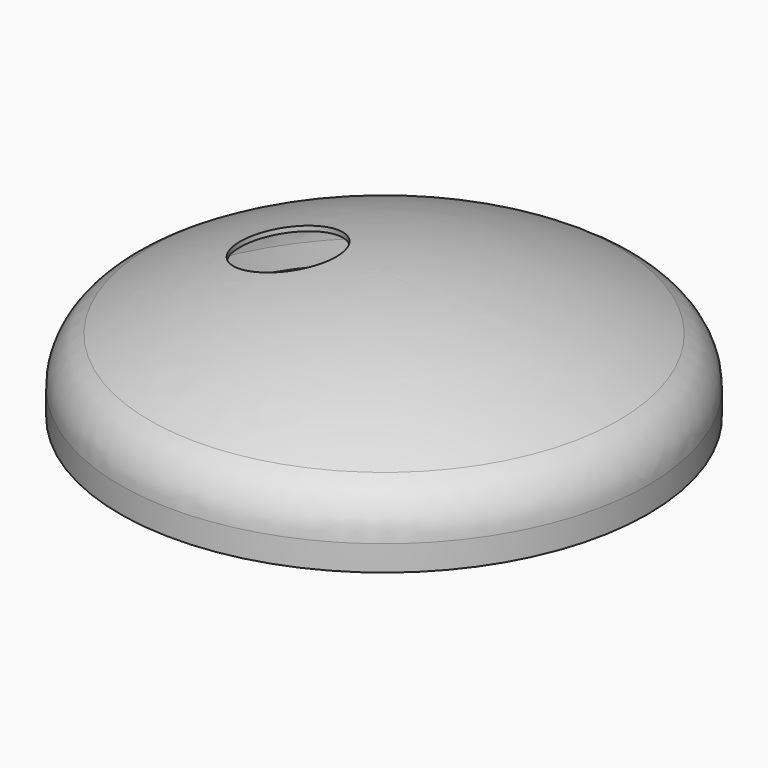
from build123d import *

# Parameters (mm, degrees)
F2_R     = 55
F3_R     = 55
F4_R     = 50
F5_DEPTH = 132.501


with BuildPart() as f1:
    # F0 (on Front) → F1 (revolve)
    with BuildSketch(Plane.XZ):
        with BuildLine():
            ThreePointArc((275, 482.078832), (142.251974, 536.460041), (0, 555))
            Line((0, 555), (0, 550))
            ThreePointArc((0, 550), (139.568499, 531.996837), (270, 479.165942))
            Line((270, 479.165942), (270, 422.5))
            Line((270, 422.5), (275, 422.5))
            Line((275, 422.5), (275, 476.313972))
            Line((275, 476.313972), (275, 482.078832))
        make_face()
    revolve(axis=Axis((0, 0, 339.339674), (0, 0, 1)))

    # F2
    f2_edges = [f1.edges().sort_by_distance(p)[0] for p in [
        (-270, 0, 479.165942),
    ]]
    fillet(f2_edges, radius=F2_R)

    # F3
    f3_edges = [f1.edges().sort_by_distance(p)[0] for p in [
        (-275, 0, 482.078832),
    ]]
    fillet(f3_edges, radius=F3_R)

    # F4 (on face) → F5 (cut, through all)
    with BuildSketch(Plane(origin=(0, 0, 422.5), x_dir=(1, 0, 0), z_dir=(0, 0, -1))):
        with Locations((-100, 0)):
            Circle(F4_R)
    extrude(amount=-F5_DEPTH, mode=Mode.SUBTRACT)


solid = f1.part
